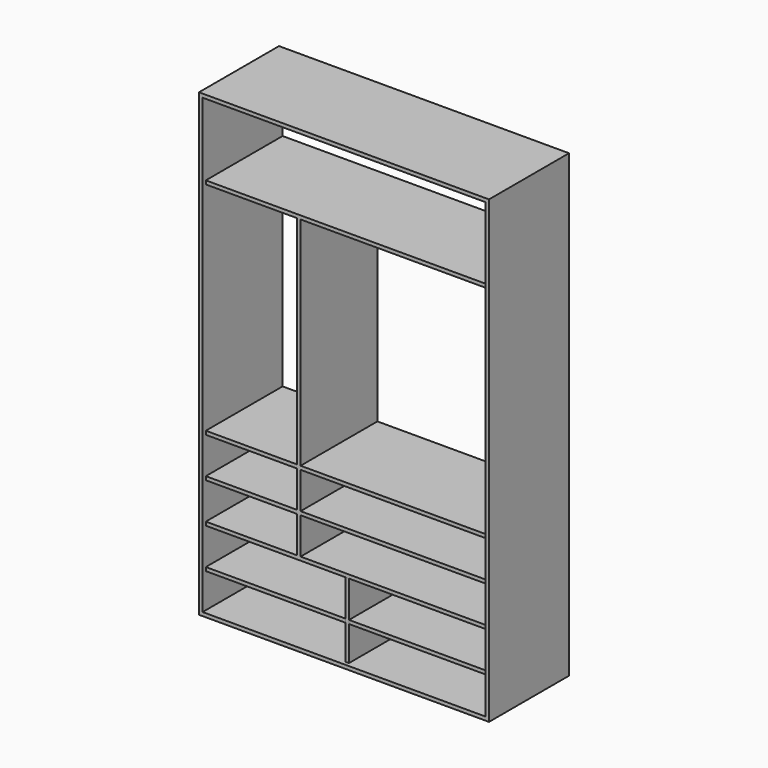
from build123d import *

# Parameters (mm, degrees)
F0_W     = 1450
F0_H     = 2300
F1_DEPTH = 500
F2_W     = 1414
F2_H     = 2264
F3_DEPTH = 500
F5_DEPTH = 480
F6_W     = 18
F6_H     = 372
F7_DEPTH = 480


with BuildPart() as f1:
    # F0 (on Front) → F1 (new body)
    with BuildSketch(Plane.XZ):
        Rectangle(F0_W, F0_H)
    extrude(amount=F1_DEPTH)

    # F2 (on face) → F3 (cut)
    with BuildSketch(Plane.XZ):
        Rectangle(F2_W, F2_H)
    extrude(amount=F3_DEPTH, mode=Mode.SUBTRACT)

    # F4 (on face) → F5 (join)
    with BuildSketch(Plane.XZ):
        Polygon((-725, -960), (725, -960), (725, -942), (-233, -942), (-251, -942), (-725, -942), align=None)
        Polygon((-233, -760), (725, -760), (725, -742), (-233, -742), (-233, -560), (725, -560), (725, -542), (-233, -542), (-233, -360), (725, -360), (725, -342), (-233, -342), (-233, 742), (725, 742), (725, 760), (-725, 760), (-725, 742), (-251, 742), (-251, -342), (-725, -342), (-725, -360), (-251, -360), (-251, -542), (-725, -542), (-725, -560), (-251, -560), (-251, -742), (-725, -742), (-725, -760), (-251, -760), align=None)
    extrude(amount=F5_DEPTH)


with BuildPart() as f7:
    # F6 (on face) → F7 (new body)
    with BuildSketch(Plane.XZ):
        with Locations((0, -946)):
            Rectangle(F6_W, F6_H)
    extrude(amount=F7_DEPTH)


solid = Compound([f1.part, f7.part])
